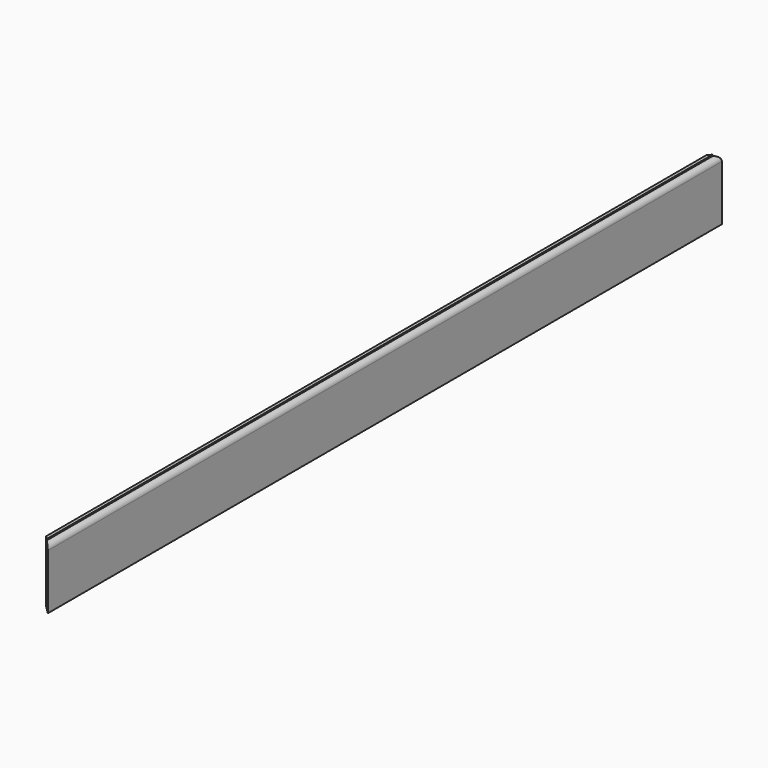
from build123d import *

# Parameters (mm, degrees)
F1_DEPTH = 2082.8
F3_DEPTH = 152.4
F5_DEPTH = 152.4


with BuildPart() as f1:
    # F0 (on Front) → F1 (new body)
    with BuildSketch(Plane.XZ):
        with BuildLine():
            Line((0, 152.4), (0, 0))
            Line((0, 0), (20.955, 0))
            Line((20.955, 0), (20.955, 136.525))
            ThreePointArc((20.955, 136.525), (17.14516, 145.595503), (8.001, 149.225))
            Line((8.001, 149.225), (8.001, 152.4))
            Line((8.001, 152.4), (0, 152.4))
        make_face()
    extrude(amount=-F1_DEPTH)

    # F2 (on face) → F3 (cut)
    with BuildSketch(Plane(origin=(0, 0, 0), x_dir=(1, 0, 0), z_dir=(0, 0, -1))):
        Polygon((0, -20.955), (20.955, 0), (0, 0), align=None)
    extrude(amount=-F3_DEPTH, mode=Mode.SUBTRACT)

    # F4 (on face) → F5 (cut)
    with BuildSketch(Plane(origin=(0, 0, 0), x_dir=(1, 0, 0), z_dir=(0, 0, -1))):
        Polygon((0, -2082.8), (20.955, -2082.8), (0, -2061.845), align=None)
    extrude(amount=-F5_DEPTH, mode=Mode.SUBTRACT)


solid = f1.part
